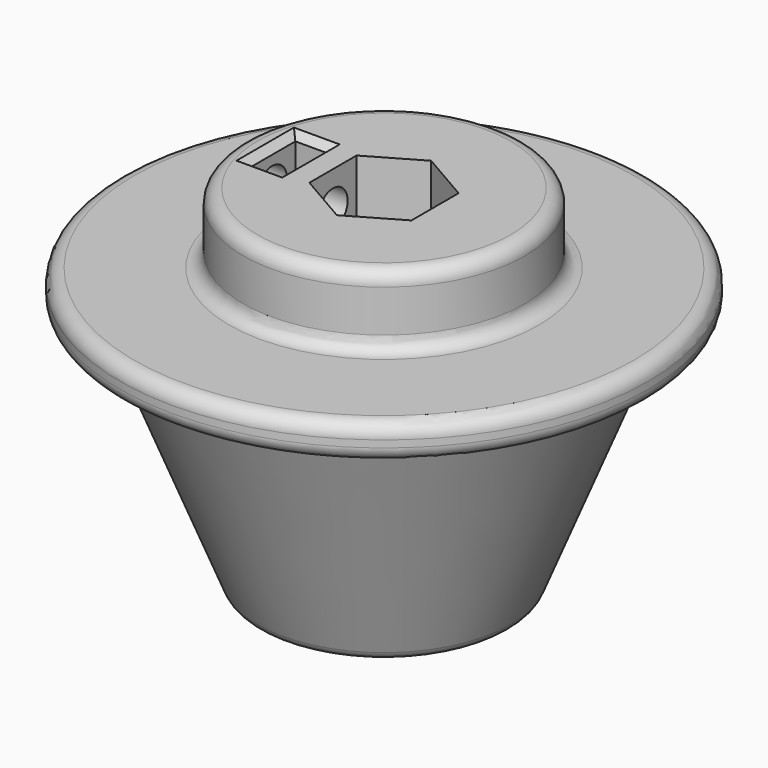
from build123d import *

# Parameters (mm, degrees)
F3_DEPTH = 50.001
F4_R     = 2.6
F5_DEPTH = 37.501
F9_DEPTH = 2.25
F10_R    = 2
F11_SIZE = 1


with BuildPart() as f1:
    # F0 (on Front) → F1 (revolve)
    with BuildSketch(Plane.XZ):
        Polygon((0, 0), (17.5, 0), (31.5, 35), (37.5, 35), (37.5, 40), (20, 40), (20, 50), (0, 50), align=None)
    revolve(axis=Axis((0, 0, 25), (0, 0, -1)))

    # F2 (on face) → F3 (cut, through all)
    with BuildSketch(Plane.XY.offset(50)):
        Polygon((0, -8.371579), (7.25, -4.185789), (7.25, 4.185789), (0, 8.371579), (-7.25, 4.185789), (-7.25, -4.185789), align=None)
    extrude(amount=-F3_DEPTH, mode=Mode.SUBTRACT)

    # F4 (on Right) → F5 (cut, through all)
    with BuildSketch(Plane.YZ):
        with Locations((0, 45)):
            Circle(F4_R)
    extrude(amount=-F5_DEPTH, mode=Mode.SUBTRACT)

    # F8 (on face) → F9 (cut, symmetric)
    with BuildSketch(Plane.YZ.offset(-13.625)):
        Polygon((4.1, 42.632864), (4.1, 55), (-4.1, 55), (-4.1, 42.632864), (0, 40.265728), align=None)
    extrude(amount=F9_DEPTH, both=True, mode=Mode.SUBTRACT)

    # F10
    f10_edges = [f1.edges().sort_by_distance(p)[0] for p in [
        (-20, 0, 50),
        (-20, 0, 40),
        (-37.5, 0, 40),
        (-37.5, 0, 35),
        (-17.5, 0, 0),
        (-3.625, -6.278684, 0),
        (3.625, -6.278684, 0),
        (7.25, 0, 0),
        (3.625, 6.278684, 0),
        (-3.625, 6.278684, 0),
        (-7.25, 0, 0),
    ]]
    fillet(f10_edges, radius=F10_R)

    # F11
    f11_edges = [f1.edges().sort_by_distance(p)[0] for p in [
        (-13.625, 4.1, 50),
        (-11.375, 0, 50),
        (-13.625, -4.1, 50),
        (-15.875, 0, 50),
    ]]
    chamfer(f11_edges, length=F11_SIZE)


solid = f1.part
